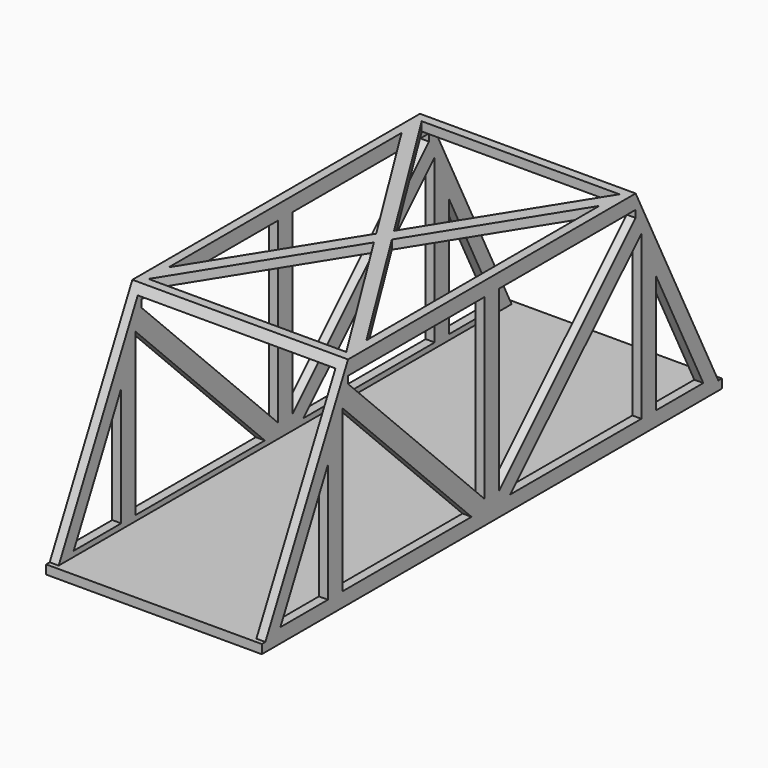
from build123d import *

# Parameters (mm, degrees)
F1_DEPTH = 38.1
F2_W     = 69.85
F2_H     = 69.85
F3_DEPTH = 127
F5_DEPTH = 76.2
F7_DEPTH = 5.588
F8_W     = 5.08
F8_H     = 3.175
F9_DEPTH = 76.2


with BuildPart() as f1:
    # F0 (on Right) → F1 (new body, symmetric)
    with BuildSketch(Plane.YZ):
        Polygon((-63.5, 32.0970378816), (-101.6, -44.1029621184), (101.6, -44.1029621184), (63.5, 32.0970378816), align=None)
    extrude(amount=F1_DEPTH, both=True)

    # F2 (on Front) → F3 (cut, symmetric)
    with BuildSketch(Plane.XZ):
        with Locations((0, -6.0029621184)):
            Rectangle(F2_W, F2_H)
    extrude(amount=F3_DEPTH, both=True, mode=Mode.SUBTRACT)

    # F4 (on face) → F5 (cut)
    with BuildSketch(Plane.YZ.offset(38.1)):
        Polygon((-72.39, 2.9578125559), (-93.3803873372, -39.0229621184), (-72.39, -39.0229621184), align=None)
        Polygon((-66.04, 18.0367817605), (-66.04, -39.0229621184), (-8.9802561211, -39.0229621184), align=None)
        Polygon((-3.175, 27.0170378816), (-63.5, 27.0170378816), (-63.5, 24.4770378816), (-3.175, -35.8479621184), align=None)
        Polygon((63.5, 27.0170378816), (3.175, 27.0170378816), (3.175, -35.8479621184), (63.5, 24.4770378816), align=None)
        Polygon((66.04, 18.5374412686), (8.0518, -39.0229621184), (66.04, -39.0229621184), align=None)
        Polygon((72.39, -39.0229621184), (93.3803873372, -39.0229621184), (72.39, 2.9578125559), align=None)
    extrude(amount=-F5_DEPTH, mode=Mode.SUBTRACT)

    # F6 (on face) → F7 (cut)
    with BuildSketch(Plane.XY.offset(32.0970378816)):
        Polygon((-34.925, 51.435), (-34.925, -51.435), (-2.778125, 0), align=None)
        Polygon((0, 4.445), (34.925, 60.325), (-34.925, 60.325), align=None)
        Polygon((2.778125, 0), (34.925, -51.435), (34.925, 51.435), align=None)
        Polygon((-34.925, -60.325), (34.925, -60.325), (0, -4.445), align=None)
    extrude(amount=-F7_DEPTH, mode=Mode.SUBTRACT)

    # F8 (on face) → F9 (join)
    with BuildSketch(Plane.YZ.offset(38.1)):
        with Locations((-99.06, -42.5154621184)):
            Rectangle(F8_W, F8_H)
        with Locations((99.06, -42.5154621184)):
            Rectangle(F8_W, F8_H)
    extrude(amount=-F9_DEPTH)


solid = f1.part
